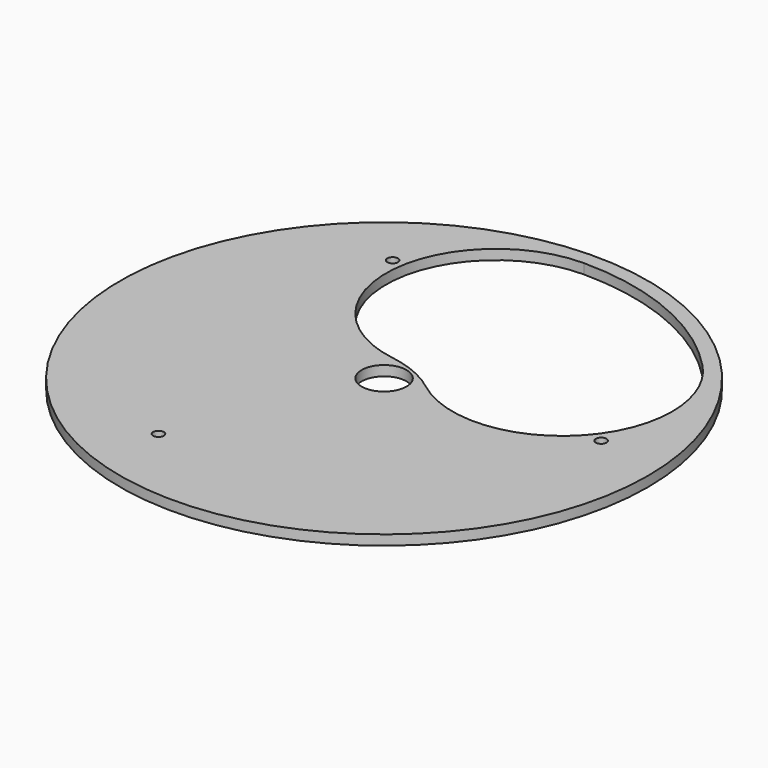
from build123d import *

# Parameters (mm, degrees)
F0_R     = 167.8813
F0_R_2   = 3.373438
F0_R_3   = 14.2748
F1_DEPTH = 6.35


with BuildPart() as f1:
    # F0 (on Top) → F1 (new body)
    with BuildSketch(Plane.XY):
        Circle(F0_R)
        with BuildLine():
            ThreePointArc((158.75, 0), (-112.253202, -112.253201), (1e-06, 158.75))
            ThreePointArc((1e-06, 158.75), (62.366073, 145.986422), (114.703619, 109.748086))
            ThreePointArc((114.703619, 109.748086), (147.327462, 59.128517), (158.75, 0))
        make_face(mode=Mode.SUBTRACT)
        with BuildLine():
            ThreePointArc((-10.511197, 19.845404), (-69.650865, 94.170625), (1e-06, 158.75))
            ThreePointArc((1e-06, 158.75), (-112.253202, -112.253201), (158.75, 0))
            ThreePointArc((158.75, 0), (147.327462, 59.128517), (114.703619, 109.748086))
            ThreePointArc((114.703619, 109.748086), (129.058109, 87.475476), (134.084026, 61.458929))
            ThreePointArc((134.084026, 61.458929), (95.06779, -1.217235), (21.605816, 6.124868))
            ThreePointArc((21.605816, 6.124868), (41.65377, -18.375428), (48.827607, -49.209192))
            ThreePointArc((48.827607, -49.209192), (-73.999887, -94.732897), (-10.511197, 19.845404))
        make_face()
        with Locations((-50.139664, -116.683392)):
            Circle(F0_R_2, mode=Mode.SUBTRACT)
        with Locations((-75.98095, 101.763919)):
            Circle(F0_R_2, mode=Mode.SUBTRACT)
        with Locations((126.120614, 14.919473)):
            Circle(F0_R_2, mode=Mode.SUBTRACT)
        with BuildLine():
            ThreePointArc((21.605816, 6.124868), (6.418678, 15.024834), (-10.511197, 19.845404))
            ThreePointArc((-10.511197, 19.845404), (-73.999887, -94.732897), (48.827607, -49.209192))
            ThreePointArc((48.827607, -49.209192), (41.65377, -18.375428), (21.605816, 6.124868))
        make_face()
        Circle(F0_R_3, mode=Mode.SUBTRACT)
    extrude(amount=F1_DEPTH)


solid = f1.part
